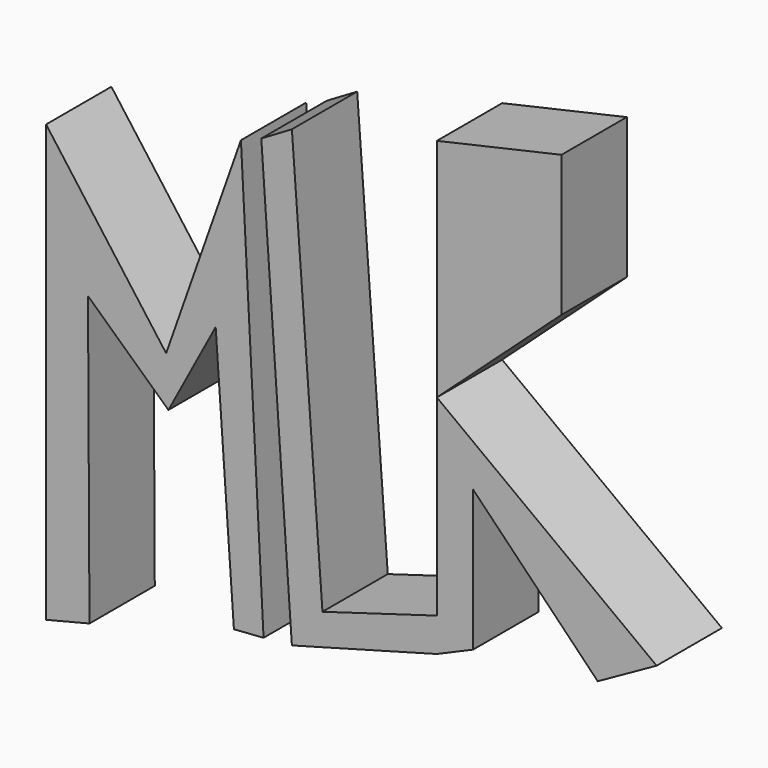
from build123d import *

# Parameters (mm, degrees)
F1_DEPTH = 25.4


with BuildPart() as f1:
    # F0 (on Front) → F1 (new body)
    with BuildSketch(Plane.XZ):
        Polygon((-8.107326, -12.210169), (-45.471512, 38.337391), (-45.471512, -97.372167), (-31.966874, -94.004562), (-32.4293, -4.426641), (-7.402337, -27.51632), (7.302303, 0), (12.976245, -80.949513), (22.207018, -80.302507), (15.157172, 53.724427), align=None)
        Polygon((76.138355, 73.388599), (76.138355, 3.093638), (114.912495, 38.337391), (114.912495, 82.168818), align=None)
        Polygon((31.019324, 61.882891), (21.502038, 56.261014), (31.019324, -79.521067), (76.138355, -67.201324), (76.138355, -56.681074), (40.536627, -67.201324), align=None)
        Polygon((76.138355, -56.681074), (76.138355, -67.201324), (87.418109, -62.33165), (87.418109, -18.47362), (126.192272, -58.391877), (144.521877, -48.165679), (76.138355, 3.093638), align=None)
    extrude(amount=F1_DEPTH)


solid = f1.part
